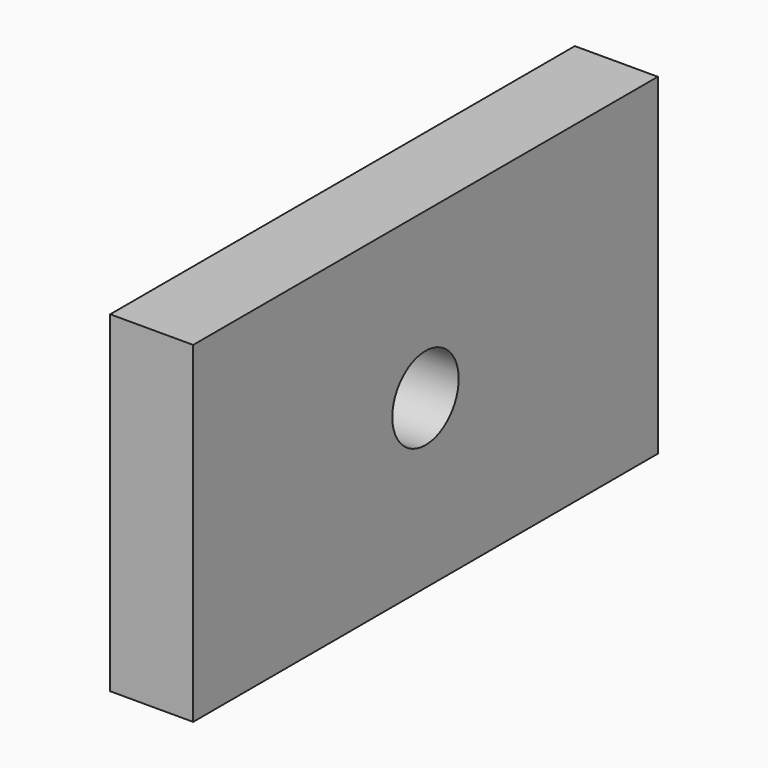
from build123d import *

# Parameters (mm, degrees)
F0_W     = 70
F0_H     = 40
F1_DEPTH = 10
F2_W     = 39
F2_H     = 29
F3_DEPTH = 15
F4_R     = 5
F5_DEPTH = 25


with BuildPart() as f1:
    # F0 (on Right) → F1 (new body)
    with BuildSketch(Plane.YZ):
        with Locations((35, 20)):
            Rectangle(F0_W, F0_H)
    extrude(amount=F1_DEPTH)

    # F2 (on face) → F3 (join)
    with BuildSketch(Plane.YZ.offset(10)):
        with Locations((35, 20)):
            Rectangle(F2_W, F2_H)
    extrude(amount=-F3_DEPTH)

    # F4 (on face) → F5 (cut)
    with BuildSketch(Plane.YZ.offset(10)):
        with Locations((35, 20.140665)):
            Circle(F4_R)
    extrude(amount=-F5_DEPTH, mode=Mode.SUBTRACT)


solid = f1.part
